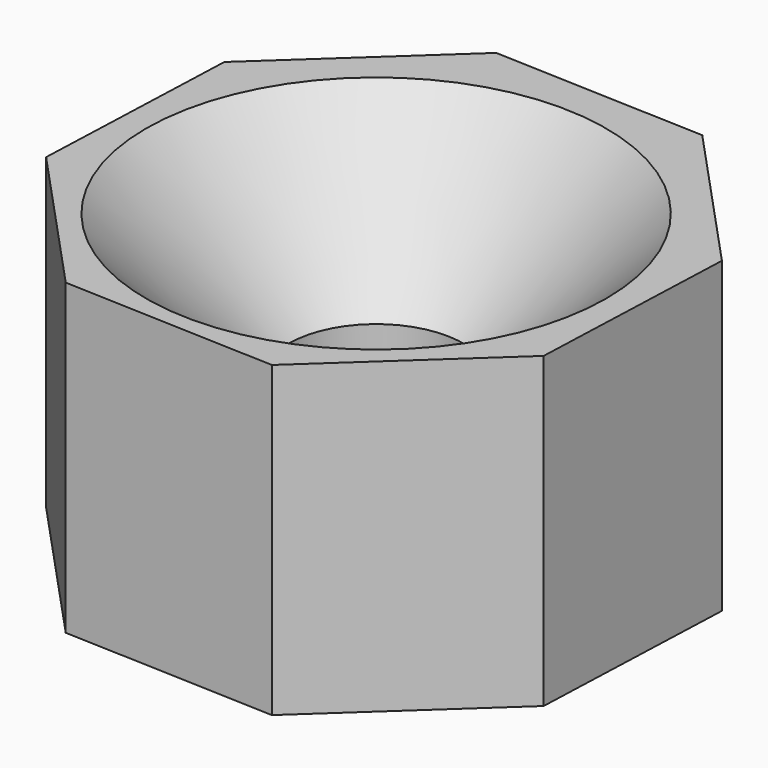
from build123d import *

# Parameters (mm, degrees)
F1_DEPTH       = 15
F3_D           = 8.5
F3_CSINK_D     = 22.4
F3_CSINK_ANGLE = 90


with BuildPart() as f1:
    # F0 (on Top) → F1 (new body)
    with BuildSketch(Plane.XY):
        Polygon((12.2918519161, -5.1738469947), (12.6896912522, 5.1738469947), (5.654081555, 12.7720864765), (-4.6936124343, 13.1699258125), (-12.2918519161, 6.1343161154), (-12.6896912522, -4.2133778739), (-5.654081555, -11.8116173557), (4.6936124343, -12.2094566918), align=None)
    extrude(amount=F1_DEPTH)

    # F3 (through all)
    with Locations(Plane.XY.offset(15)):
        with Locations((0, 0)):
            CounterSinkHole(F3_D / 2, F3_CSINK_D / 2, counter_sink_angle=F3_CSINK_ANGLE)


solid = f1.part
